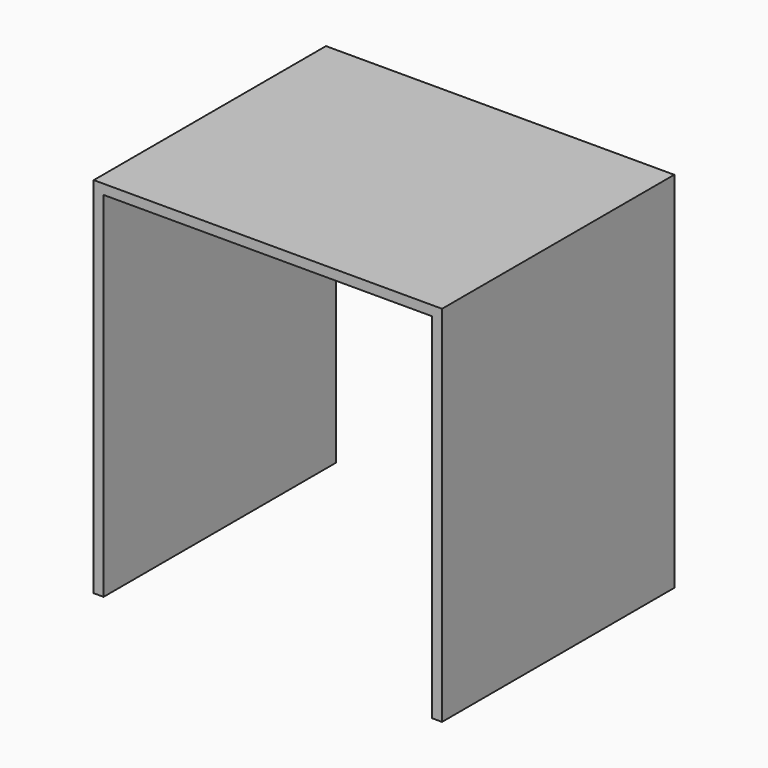
from build123d import *

# Parameters (mm, degrees)
F0_W     = 900
F0_H     = 750
F1_DEPTH = 25.4
F3_DEPTH = 914.4
F5_DEPTH = 25.4


with BuildPart() as f1:
    # F0 (on Top) → F1 (new body)
    with BuildSketch(Plane.XY):
        Rectangle(F0_W, F0_H)
    extrude(amount=F1_DEPTH)

    # F2 (on face) → F3 (join)
    with BuildSketch(Plane(origin=(0, 0, 0), x_dir=(1, 0, 0), z_dir=(0, 0, -1))):
        Polygon((-424.6, 375), (-450, 375), (-450, -375), (-424.6, -361.6), align=None)
        Polygon((-424.6, -361.6), (-450, -375), (450, -375), (424.6, -361.6), align=None)
        Polygon((424.6, -361.6), (450, -375), (450, 375), (424.6, 375), align=None)
    extrude(amount=F3_DEPTH)

    # F4 (on face) → F5 (cut)
    with BuildSketch(Plane.XZ.offset(-361.6)):
        Polygon((424.6, -137.324512), (-424.6, -164.4), (-424.6, -914.4), (424.6, -914.4), align=None)
    extrude(amount=-F5_DEPTH, mode=Mode.SUBTRACT)


solid = f1.part
